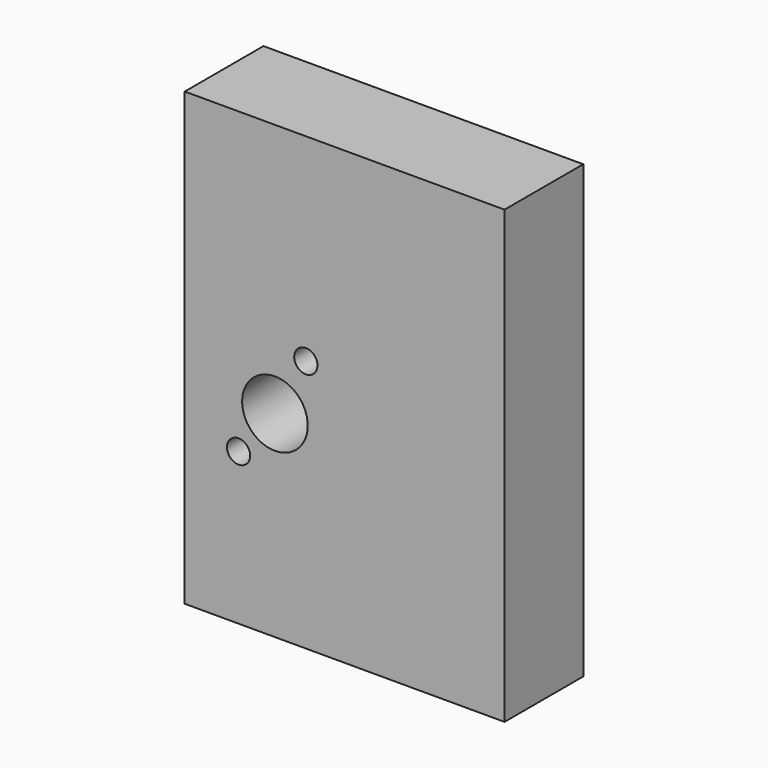
from build123d import *

# Parameters (mm, degrees)
F0_W     = 123.825
F0_H     = 38.1
F1_DEPTH = 174.625
F2_R     = 12.7
F3_R     = 4.5
F4_DEPTH = 38.101


with BuildPart() as f1:
    # F0 (on Top) → F1 (new body)
    with BuildSketch(Plane.XY):
        with Locations((61.9125, 19.05)):
            Rectangle(F0_W, F0_H)
    extrude(amount=F1_DEPTH)

    # F2 (on face) + F3 (on face) → F4 (cut, through all)
    with BuildSketch(Plane.XZ):
        with Locations((34.925, 76.2)):
            Circle(F2_R)
    with BuildSketch(Plane.XZ):
        with Locations((46.887251, 97.958434)):
            Circle(F3_R)
        with Locations((20.837554, 58.706616)):
            Circle(F3_R)
    extrude(amount=-F4_DEPTH, mode=Mode.SUBTRACT)


solid = f1.part
